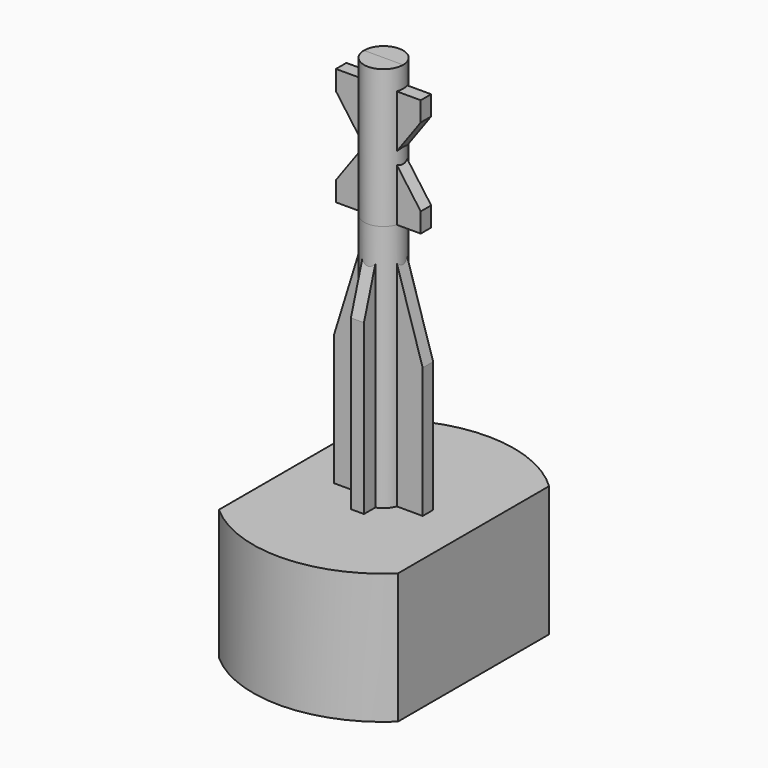
from build123d import *

# Parameters (mm, degrees)
SKETCH_R             = 1.5
PAD_DEPTH            = 35
PAD001_DEPTH         = 0.5
SKETCH002_R          = 1.5
PAD002_DEPTH         = 19
PAD003_DEPTH         = 0.5
POLARPATTERN_COUNT   = 2
POLARPATTERN_ANGLE   = 90
SKETCH004_R          = 10
PAD004_DEPTH         = 10
SKETCH006_W          = 5.388718
SKETCH006_H          = 19
SKETCH006_W_2        = 5.907516
POCKET_DEPTH         = 5
SKETCH005_W          = 53.248554
SKETCH005_H          = 72.779518
SKETCH005_W_2        = 13.520593
SKETCH005_H_2        = 41.716759
POCKET001_DEPTH      = 10.001
POCKET001_DEPTH_BACK = -10.001


with BuildPart() as part:
    # Sketch → Pad (new body)
    with BuildSketch(Plane.XY):
        Circle(SKETCH_R)
    extrude(amount=PAD_DEPTH)

    # Sketch001 → Pad001 (join, symmetric)
    with BuildSketch(Plane.XZ):
        Polygon((-3.25, 0), (3.25, 0), (3.25, 1.5), (1.083333, 4.5), (3.25, 7.5), (3.25, 9), (-3.25, 9), (-3.25, 7.5), (-1.083333, 4.5), (-3.25, 1.5), align=None)
    extrude(amount=PAD001_DEPTH, both=True)

    # Sketch002 → Pad002 (join)
    with BuildSketch(Plane.XY):
        Circle(SKETCH002_R)
    extrude(amount=-PAD002_DEPTH)

    # Sketch003 → Pad003 (join, symmetric)
    with BuildSketch(Plane.XZ):
        Polygon((-3.4, -19), (3.4, -19), (3.4, -9), (0, 2), (-3.4, -9), align=None)
    pad003 = extrude(amount=PAD003_DEPTH, both=True)

    # PolarPattern: Pad003 ×2 about axis
    polarpattern_axis = Axis((0, 0, 0), (0, 0, 1))
    for i in range(1, POLARPATTERN_COUNT):
        add(pad003.rotate(polarpattern_axis, i * POLARPATTERN_ANGLE / (POLARPATTERN_COUNT - 1)))

    # Sketch004 → Pad004 (join)
    with BuildSketch(Plane.XY.offset(-19)):
        Circle(SKETCH004_R)
    extrude(amount=-PAD004_DEPTH)

    # Sketch006 → Pocket (cut, symmetric)
    with BuildSketch(Plane.YZ):
        with Locations((5.194359, -9.5)):
            Rectangle(SKETCH006_W, SKETCH006_H)
        with Locations((-5.453758, -9.5)):
            Rectangle(SKETCH006_W_2, SKETCH006_H)
    extrude(amount=POCKET_DEPTH, both=True, mode=Mode.SUBTRACT)

    # Sketch005 → Pocket001 (cut, two sides)
    with BuildSketch(Plane.XZ) as pocket001_sk:
        with Locations((-0.717024, -0.672455)):
            Rectangle(SKETCH005_W, SKETCH005_H)
        with Locations((0.133193, -10.244297)):
            Rectangle(SKETCH005_W_2, SKETCH005_H_2, mode=Mode.SUBTRACT)
    extrude(amount=-POCKET001_DEPTH, mode=Mode.SUBTRACT)
    extrude(pocket001_sk.sketch, amount=-POCKET001_DEPTH_BACK, mode=Mode.SUBTRACT)


solid = part.part
